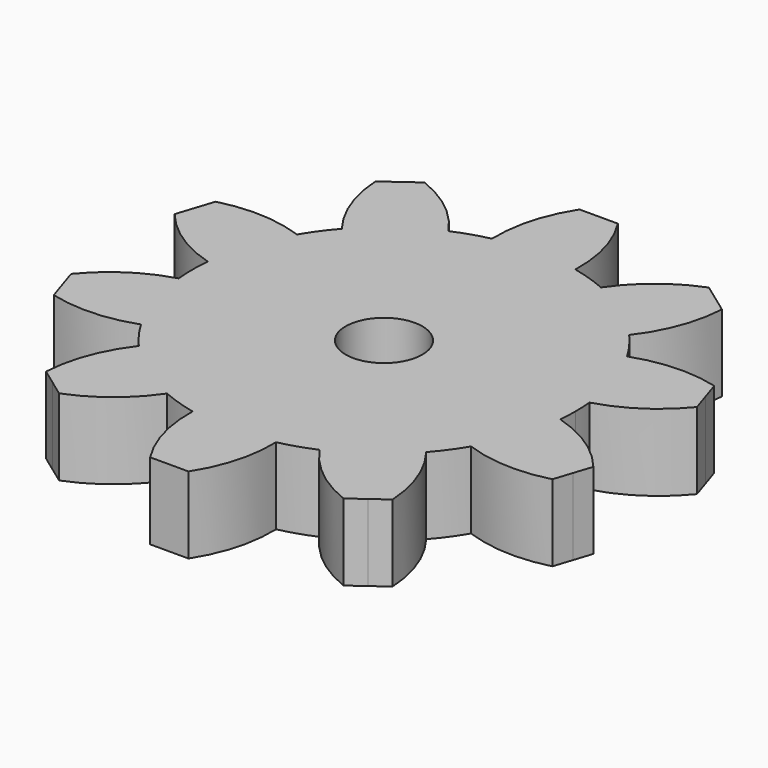
from build123d import *

# Parameters (mm, degrees)
F1_DEPTH = 2
F2_R     = 1
F3_DEPTH = 2.001


with BuildPart() as f1:
    # F0 (on Top) → F1 (new body)
    with BuildSketch(Plane.XY):
        with BuildLine():
            ThreePointArc((4.977473, -0.474095), (4.994365, -0.237315), (5, 0))
            ThreePointArc((5, 0), (4.994365, 0.237315), (4.977473, 0.474095))
            ThreePointArc((4.977473, 0.474095), (4.755283, 1.545085), (4.305526, 2.542134))
            ThreePointArc((4.305526, 2.542134), (4.045085, 2.938926), (3.748194, 3.309236))
            ThreePointArc((3.748194, 3.309236), (2.938926, 4.045085), (1.989014, 4.587355))
            ThreePointArc((1.989014, 4.587355), (1.545085, 4.755283), (1.087233, 4.880361))
            ThreePointArc((1.087233, 4.880361), (0.546898, 4.97), (0, 5))
            ThreePointArc((0, 5), (-0.546898, 4.97), (-1.087233, 4.880361))
            ThreePointArc((-1.087233, 4.880361), (-1.545085, 4.755283), (-1.989014, 4.587355))
            ThreePointArc((-1.989014, 4.587355), (-2.938926, 4.045085), (-3.748194, 3.309236))
            ThreePointArc((-3.748194, 3.309236), (-4.045085, 2.938926), (-4.305526, 2.542134))
            ThreePointArc((-4.305526, 2.542134), (-4.755283, 1.545085), (-4.977473, 0.474095))
            ThreePointArc((-4.977473, 0.474095), (-5, 0), (-4.977473, -0.474095))
            ThreePointArc((-4.977473, -0.474095), (-4.755283, -1.545085), (-4.305526, -2.542134))
            ThreePointArc((-4.305526, -2.542134), (-4.045085, -2.938926), (-3.748194, -3.309236))
            ThreePointArc((-3.748194, -3.309236), (-2.938926, -4.045085), (-1.989014, -4.587355))
            ThreePointArc((-1.989014, -4.587355), (-1.545085, -4.755283), (-1.087233, -4.880361))
            ThreePointArc((-1.087233, -4.880361), (0, -5), (1.087233, -4.880361))
            ThreePointArc((1.087233, -4.880361), (1.545085, -4.755283), (1.989014, -4.587355))
            ThreePointArc((1.989014, -4.587355), (2.938926, -4.045085), (3.748194, -3.309236))
            ThreePointArc((3.748194, -3.309236), (4.045085, -2.938926), (4.305526, -2.542134))
            ThreePointArc((4.305526, -2.542134), (4.755283, -1.545085), (4.977473, -0.474095))
        make_face()
        with BuildLine():
            ThreePointArc((4.305526, 2.542134), (4.755283, 1.545085), (4.977473, 0.474095))
            ThreePointArc((4.977473, 0.474095), (5.987228, 0.940952), (6.811904, 1.687591))
            Line((6.811904, 1.687591), (6.657396, 2.163119))
            Line((6.657396, 2.163119), (6.502887, 2.638647))
            ThreePointArc((6.502887, 2.638647), (5.396847, 2.757958), (4.305526, 2.542134))
        make_face()
        with BuildLine():
            ThreePointArc((6.811904, -1.687591), (5.987228, -0.940952), (4.977473, -0.474095))
            ThreePointArc((4.977473, -0.474095), (4.755283, -1.545085), (4.305526, -2.542134))
            ThreePointArc((4.305526, -2.542134), (5.396847, -2.757958), (6.502887, -2.638647))
            Line((6.502887, -2.638647), (6.657396, -2.163119))
            Line((6.657396, -2.163119), (6.811904, -1.687591))
        make_face()
        with BuildLine():
            ThreePointArc((1.989014, 4.587355), (2.938926, 4.045085), (3.748194, 3.309236))
            ThreePointArc((3.748194, 3.309236), (4.290691, 4.28045), (4.519005, 5.369226))
            Line((4.519005, 5.369226), (4.114497, 5.663119))
            Line((4.114497, 5.663119), (3.709988, 5.957012))
            ThreePointArc((3.709988, 5.957012), (2.745054, 5.403422), (1.989014, 4.587355))
        make_face()
        with BuildLine():
            ThreePointArc((4.519005, -5.369226), (4.290691, -4.28045), (3.748194, -3.309236))
            ThreePointArc((3.748194, -3.309236), (2.938926, -4.045085), (1.989014, -4.587355))
            ThreePointArc((1.989014, -4.587355), (2.745054, -5.403422), (3.709988, -5.957012))
            Line((3.709988, -5.957012), (4.114497, -5.663119))
            Line((4.114497, -5.663119), (4.519005, -5.369226))
        make_face()
        with BuildLine():
            ThreePointArc((0, 5), (0.546898, 4.97), (1.087233, 4.880361))
            ThreePointArc((1.087233, 4.880361), (0.955257, 5.984962), (0.5, 7))
            Line((0.5, 7), (0, 7))
            Line((0, 7), (0, 5))
        make_face()
        with BuildLine():
            ThreePointArc((0.5, -7), (0.955257, -5.984962), (1.087233, -4.880361))
            ThreePointArc((1.087233, -4.880361), (0, -5), (-1.087233, -4.880361))
            ThreePointArc((-1.087233, -4.880361), (-0.955257, -5.984962), (-0.5, -7))
            Line((-0.5, -7), (0, -7))
            Line((0, -7), (0.5, -7))
        make_face()
        with BuildLine():
            ThreePointArc((-1.087233, 4.880361), (-0.546898, 4.97), (0, 5))
            Line((0, 5), (0, 7))
            Line((0, 7), (-0.5, 7))
            ThreePointArc((-0.5, 7), (-0.955257, 5.984962), (-1.087233, 4.880361))
        make_face()
        with BuildLine():
            ThreePointArc((-3.709988, -5.957012), (-2.745054, -5.403422), (-1.989014, -4.587355))
            ThreePointArc((-1.989014, -4.587355), (-2.938926, -4.045085), (-3.748194, -3.309236))
            ThreePointArc((-3.748194, -3.309236), (-4.290691, -4.28045), (-4.519005, -5.369226))
            Line((-4.519005, -5.369226), (-4.114497, -5.663119))
            Line((-4.114497, -5.663119), (-3.709988, -5.957012))
        make_face()
        with BuildLine():
            ThreePointArc((-3.748194, 3.309236), (-2.938926, 4.045085), (-1.989014, 4.587355))
            ThreePointArc((-1.989014, 4.587355), (-2.745054, 5.403422), (-3.709988, 5.957012))
            Line((-3.709988, 5.957012), (-4.114497, 5.663119))
            Line((-4.114497, 5.663119), (-4.519005, 5.369226))
            ThreePointArc((-4.519005, 5.369226), (-4.290691, 4.28045), (-3.748194, 3.309236))
        make_face()
        with BuildLine():
            ThreePointArc((-6.502887, -2.638647), (-5.396847, -2.757958), (-4.305526, -2.542134))
            ThreePointArc((-4.305526, -2.542134), (-4.755283, -1.545085), (-4.977473, -0.474095))
            ThreePointArc((-4.977473, -0.474095), (-5.987228, -0.940952), (-6.811904, -1.687591))
            Line((-6.811904, -1.687591), (-6.657396, -2.163119))
            Line((-6.657396, -2.163119), (-6.502887, -2.638647))
        make_face()
        with BuildLine():
            ThreePointArc((-4.977473, 0.474095), (-4.755283, 1.545085), (-4.305526, 2.542134))
            ThreePointArc((-4.305526, 2.542134), (-5.396847, 2.757958), (-6.502887, 2.638647))
            Line((-6.502887, 2.638647), (-6.657396, 2.163119))
            Line((-6.657396, 2.163119), (-6.811904, 1.687591))
            ThreePointArc((-6.811904, 1.687591), (-5.987228, 0.940952), (-4.977473, 0.474095))
        make_face()
    extrude(amount=F1_DEPTH)

    # F2 (on face) → F3 (cut, through all)
    with BuildSketch(Plane.XY.offset(2)):
        Circle(F2_R)
    extrude(amount=-F3_DEPTH, mode=Mode.SUBTRACT)


solid = f1.part
